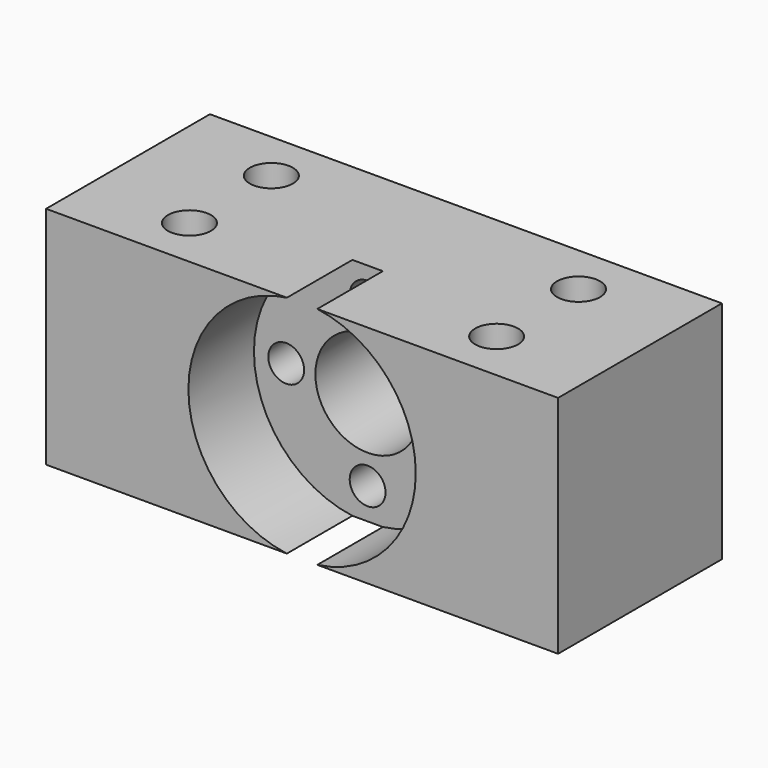
from build123d import *

# Parameters (mm, degrees)
SKETCH_W        = 50
SKETCH_H        = 20
SKETCH_R        = 2.1
PAD_DEPTH       = 22
SKETCH001_R     = 11.1
POCKET_DEPTH    = 8
SKETCH002_R     = 5.1
SKETCH002_R_2   = 1.75
POCKET001_DEPTH = 20


with BuildPart() as part:
    # Sketch → Pad (new body)
    with BuildSketch(Plane.XY):
        with Locations((25, 10)):
            Rectangle(SKETCH_W, SKETCH_H)
        with Locations((10, 15)):
            Circle(SKETCH_R, mode=Mode.SUBTRACT)
        with Locations((10, 5)):
            Circle(SKETCH_R, mode=Mode.SUBTRACT)
        with Locations((40, 15)):
            Circle(SKETCH_R, mode=Mode.SUBTRACT)
        with Locations((40, 5)):
            Circle(SKETCH_R, mode=Mode.SUBTRACT)
    extrude(amount=PAD_DEPTH)

    # Sketch001 (on Face3 of Pad) → Pocket (cut)
    with BuildSketch(Plane.XZ):
        with Locations((25, 11)):
            Circle(SKETCH001_R)
    extrude(amount=-POCKET_DEPTH, mode=Mode.SUBTRACT)

    # Sketch002 (on Face1 of Pocket) → Pocket001 (cut)
    with BuildSketch(Plane(origin=(0, 20, 0), x_dir=(-1, 0, 0), z_dir=(0, 1, 0))):
        with Locations((-25, 11)):
            Circle(SKETCH002_R)
        with Locations((-25, 18.95)):
            Circle(SKETCH002_R_2)
        with Locations((-25, 3.05)):
            Circle(SKETCH002_R_2)
        with Locations((-32.95, 11)):
            Circle(SKETCH002_R_2)
        with Locations((-17.05, 11)):
            Circle(SKETCH002_R_2)
    extrude(amount=-POCKET001_DEPTH, mode=Mode.SUBTRACT)


solid = part.part
